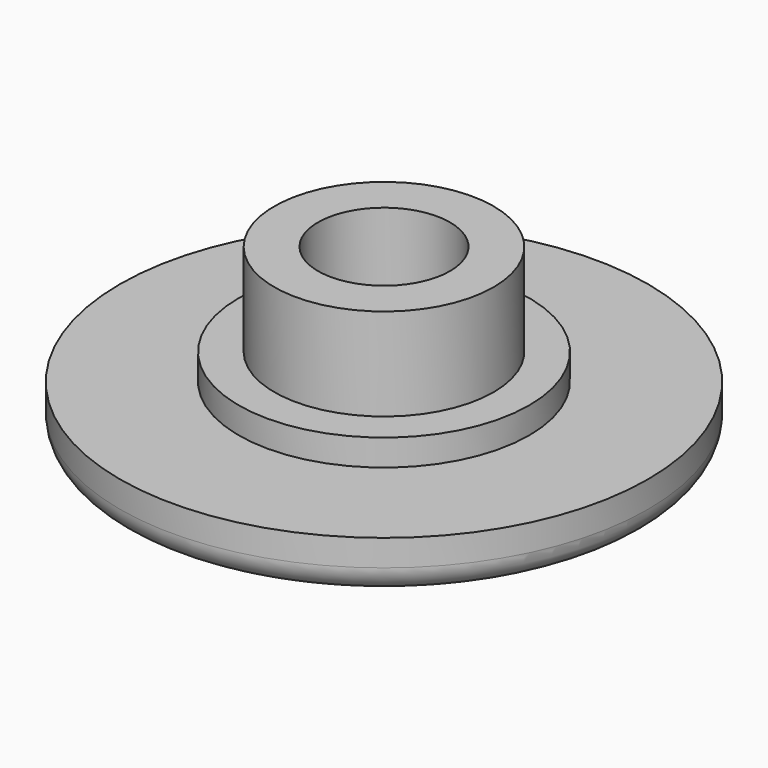
from build123d import *

# Parameters (mm, degrees)
F0_R     = 10
F1_DEPTH = 2
F2_R     = 5.5
F3_DEPTH = 1
F4_R     = 4.15
F5_DEPTH = 3.5
F6_R     = 2.5
F7_DEPTH = 10
F8_R     = 1


with BuildPart() as f1:
    # F0 (on Top) → F1 (new body)
    with BuildSketch(Plane.XY):
        Circle(F0_R)
    extrude(amount=F1_DEPTH)

    # F2 (on face) → F3 (join)
    with BuildSketch(Plane.XY.offset(2)):
        Circle(F2_R)
    extrude(amount=F3_DEPTH)

    # F4 (on face) → F5 (join)
    with BuildSketch(Plane.XY.offset(3)):
        Circle(F4_R)
    extrude(amount=F5_DEPTH)

    # F6 (on face) → F7 (cut)
    with BuildSketch(Plane.XY.offset(6.5)):
        Circle(F6_R)
    extrude(amount=-F7_DEPTH, mode=Mode.SUBTRACT)

    # F8
    f8_edges = [f1.edges().sort_by_distance(p)[0] for p in [
        (-10, 0, 0),
    ]]
    fillet(f8_edges, radius=F8_R)


solid = f1.part
